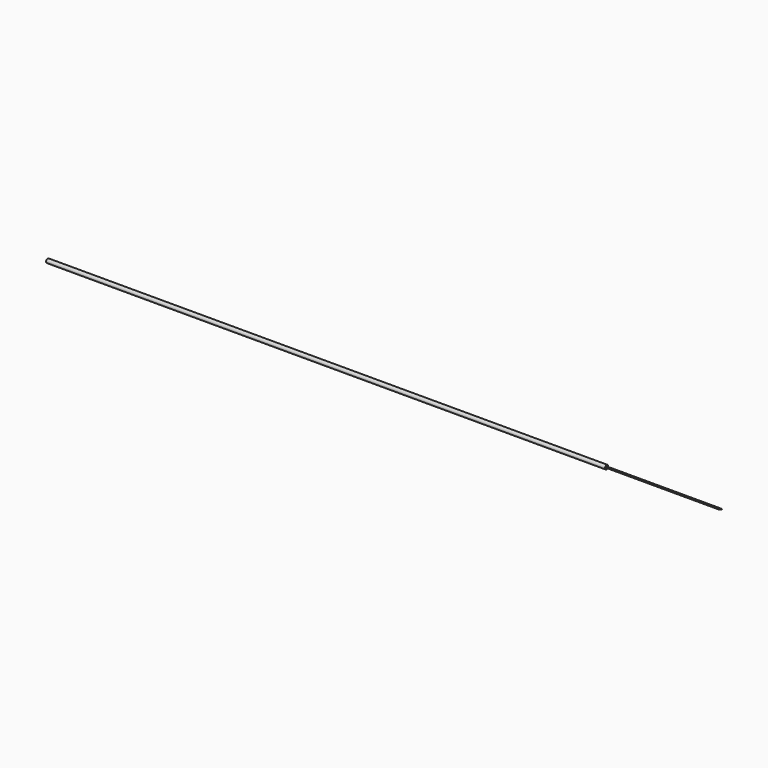
from build123d import *

# Parameters (mm, degrees)
F0_R          = 1.190625
F0_R_2        = 0.396875
F1_DEPTH      = 336.55
F2_R          = 0.396875
F2_R_2        = 0.26035
F3_DEPTH      = 69.088
F3_DEPTH_BACK = 4.826
F5_DEPTH      = 12.7


with BuildPart() as f1:
    # F0 (on Right) → F1 (new body)
    with BuildSketch(Plane.YZ):
        Circle(F0_R)
        Circle(F0_R_2, mode=Mode.SUBTRACT)
    extrude(amount=-F1_DEPTH)


with BuildPart() as f3:
    # F2 (on face) → F3 (new body, two sides)
    with BuildSketch(Plane.YZ) as f3_sk:
        Circle(F2_R)
        Circle(F2_R_2, mode=Mode.SUBTRACT)
    extrude(amount=F3_DEPTH)
    extrude(f3_sk.sketch, amount=-F3_DEPTH_BACK)

    # F4 (on Top) → F5 (cut, symmetric)
    with BuildSketch(Plane.XY):
        with BuildLine():
            Line((69.088, -0.492125), (69.088, 0.396875))
            ThreePointArc((69.088, 0.396875), (68.098456, 0.031756), (67.183, -0.492125))
            Line((67.183, -0.492125), (69.088, -0.492125))
        make_face()
    extrude(amount=F5_DEPTH, both=True, mode=Mode.SUBTRACT)


solid = Compound([f1.part, f3.part])
